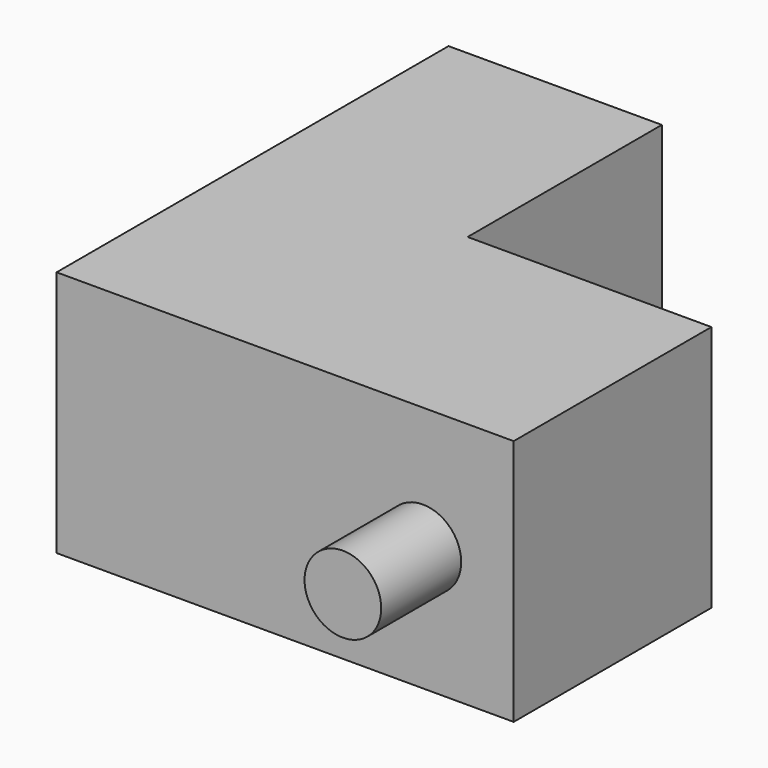
from build123d import *

# Parameters (mm, degrees)
F1_DEPTH = 22.606
F2_R     = 3.5052
F3_DEPTH = 9.144


with BuildPart() as f1:
    # F0 (on Top) → F1 (new body)
    with BuildSketch(Plane.XY):
        Polygon((0, 44.8), (0, 0), (41.8, 0), (41.8, 22.6), (19.5072, 22.6), (19.5072, 44.8), align=None)
    extrude(amount=F1_DEPTH)

    # F2 (on face) → F3 (join)
    with BuildSketch(Plane.XZ):
        with Locations((33.4942, 11.303)):
            Circle(F2_R)
    extrude(amount=F3_DEPTH)


solid = f1.part
